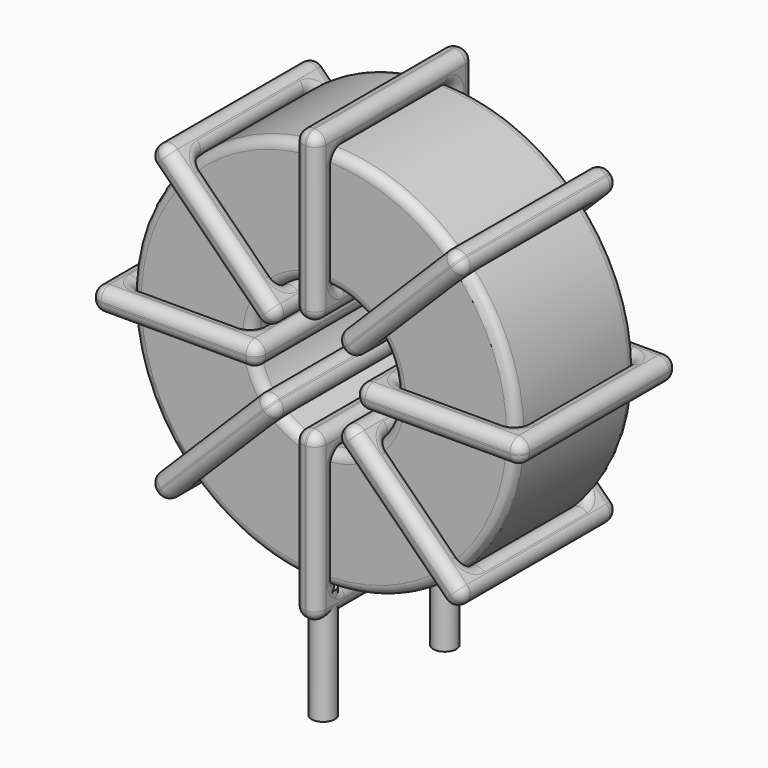
from build123d import *

# Parameters (mm, degrees)
SKETCH001_R       = 0.6
PAD001_DEPTH      = 1.2
PAD001_DEPTH_BACK = 4.7
SKETCH_R          = 10
SKETCH_R_2        = 3.733333
PAD_DEPTH         = 3.9
FILLET_R          = 0.5
SKETCH003_W       = 8.666667
SKETCH003_H       = 10.2
SKETCH003_W_2     = 6.266667
SKETCH003_H_2     = 7.8
PAD002_DEPTH      = 0.6
FILLET001_R       = 0.564
SKETCH004_W       = 8.666667
SKETCH004_H       = 10.2
SKETCH004_W_2     = 6.266667
SKETCH004_H_2     = 7.8
PAD003_DEPTH      = 0.6
FILLET002_R       = 0.564
SKETCH005_W       = 8.666667
SKETCH005_H       = 10.2
SKETCH005_W_2     = 6.266667
SKETCH005_H_2     = 7.8
PAD004_DEPTH      = 0.6
FILLET003_R       = 0.564
SKETCH006_W       = 8.666667
SKETCH006_H       = 10.2
SKETCH006_W_2     = 6.266667
SKETCH006_H_2     = 7.8
PAD005_DEPTH      = 0.6
FILLET004_R       = 0.564


with BuildPart() as pad001:
    # Sketch001 → Pad001 (new body, two sides)
    with BuildSketch(Plane.XY.offset(1.7)) as pad001_sk:
        Circle(SKETCH001_R)
        with Locations((0, -7.9)):
            Circle(SKETCH001_R)
    extrude(amount=PAD001_DEPTH)
    extrude(pad001_sk.sketch, amount=-PAD001_DEPTH_BACK)


with BuildPart() as fillet_body:
    # Sketch → Pad (new body, symmetric)
    with BuildSketch(Plane.XZ.offset(3.95)):
        with Locations((0, 12.9)):
            Circle(SKETCH_R)
        with Locations((0, 12.9)):
            Circle(SKETCH_R_2, mode=Mode.SUBTRACT)
    extrude(amount=PAD_DEPTH, both=True)

    # Fillet
    fillet_edges = [fillet_body.edges().sort_by_distance(p)[0] for p in [
        (-3.733333, -7.85, 12.9),
        (-10, -7.85, 12.9),
        (-10, -0.05, 12.9),
    ]]
    fillet(fillet_edges, radius=FILLET_R)


with BuildPart() as fillet001:
    # Sketch003 → Pad002 (new body, symmetric)
    with BuildSketch(Plane(origin=(0, 1.15, 12.9), x_dir=(1, 0, 0), z_dir=(0, 0, -1))):
        with Locations((-6.866666, 5.1)):
            Rectangle(SKETCH003_W, SKETCH003_H)
        with Locations((-6.866667, 5.1)):
            Rectangle(SKETCH003_W_2, SKETCH003_H_2, mode=Mode.SUBTRACT)
        with Locations((6.866666, 5.1)):
            Rectangle(SKETCH003_W, SKETCH003_H)
        with Locations((6.866667, 5.1)):
            Rectangle(SKETCH003_W_2, SKETCH003_H_2, mode=Mode.SUBTRACT)
    extrude(amount=PAD002_DEPTH, both=True)

    # Fillet001
    fillet001_edges = [fillet001.edges().sort_by_distance(p)[0] for p in [
        (-3.733333, -7.85, 12.9),
        (-3.733333, -0.05, 12.9),
        (-3.733333, -3.95, 13.5),
        (-3.733333, -3.95, 12.3),
        (-11.2, -9.05, 12.9),
        (-2.533333, -9.05, 12.9),
        (-6.866667, -9.05, 13.5),
        (-6.866667, -9.05, 12.3),
        (-2.533333, 1.15, 12.9),
        (-2.533333, -3.95, 13.5),
        (-2.533333, -3.95, 12.3),
        (3.733333, -7.85, 12.9),
        (10, -7.85, 12.9),
        (6.866667, -7.85, 13.5),
        (6.866667, -7.85, 12.3),
        (10, -0.05, 12.9),
        (10, -3.95, 13.5),
        (10, -3.95, 12.3),
        (2.533333, -9.05, 12.9),
        (11.2, -9.05, 12.9),
        (6.866667, -9.05, 13.5),
        (6.866667, -9.05, 12.3),
        (11.2, 1.15, 12.9),
        (11.2, -3.95, 13.5),
        (11.2, -3.95, 12.3),
        (-10, -7.85, 12.9),
        (-6.866667, -7.85, 13.5),
        (-6.866667, -7.85, 12.3),
        (3.733333, -0.05, 12.9),
        (3.733333, -3.95, 13.5),
        (3.733333, -3.95, 12.3),
        (6.866667, -0.05, 13.5),
        (6.866667, -0.05, 12.3),
        (2.533333, 1.15, 12.9),
        (6.866667, 1.15, 13.5),
        (6.866667, 1.15, 12.3),
        (2.533333, -3.95, 13.5),
        (2.533333, -3.95, 12.3),
        (-11.2, 1.15, 12.9),
        (-6.866667, 1.15, 13.5),
        (-6.866667, 1.15, 12.3),
        (-11.2, -3.95, 13.5),
        (-11.2, -3.95, 12.3),
        (-10, -0.05, 12.9),
        (-10, -3.95, 13.5),
        (-10, -3.95, 12.3),
        (-6.866667, -0.05, 13.5),
        (-6.866667, -0.05, 12.3),
    ]]
    fillet(fillet001_edges, radius=FILLET001_R)


with BuildPart() as fillet002:
    # Sketch004 → Pad003 (new body, symmetric)
    with BuildSketch(Plane(origin=(0, 1.15, 12.9), x_dir=(0.707108, 0, 0.707106), z_dir=(0.707106, 0, -0.707108))):
        with Locations((-6.866666, 5.1)):
            Rectangle(SKETCH004_W, SKETCH004_H)
        with Locations((-6.866667, 5.1)):
            Rectangle(SKETCH004_W_2, SKETCH004_H_2, mode=Mode.SUBTRACT)
        with Locations((6.866666, 5.1)):
            Rectangle(SKETCH004_W, SKETCH004_H)
        with Locations((6.866667, 5.1)):
            Rectangle(SKETCH004_W_2, SKETCH004_H_2, mode=Mode.SUBTRACT)
    extrude(amount=PAD003_DEPTH, both=True)

    # Fillet002
    fillet002_edges = [fillet002.edges().sort_by_distance(p)[0] for p in [
        (-2.639868, -7.85, 10.260138),
        (-2.639868, -0.05, 10.260138),
        (-3.064132, -3.95, 10.684402),
        (-2.215605, -3.95, 9.835873),
        (-7.919605, -9.05, 4.980413),
        (-1.791339, -9.05, 11.108665),
        (-5.279736, -9.05, 8.468804),
        (-4.431209, -9.05, 7.620274),
        (-1.791339, 1.15, 11.108665),
        (-2.215603, -3.95, 11.532929),
        (-1.367076, -3.95, 10.6844),
        (2.639868, -7.85, 15.539862),
        (7.071076, -7.85, 19.97106),
        (4.431209, -7.85, 18.179726),
        (5.279736, -7.85, 17.331196),
        (7.071076, -0.05, 19.97106),
        (6.646812, -3.95, 20.395324),
        (7.49534, -3.95, 19.546795),
        (1.791339, -9.05, 14.691335),
        (7.919605, -9.05, 20.819587),
        (4.431209, -9.05, 18.179726),
        (5.279736, -9.05, 17.331196),
        (7.919605, 1.15, 20.819587),
        (7.495342, -3.95, 21.243851),
        (8.343869, -3.95, 20.395322),
        (-7.071076, -7.85, 5.82894),
        (-5.279736, -7.85, 8.468804),
        (-4.431209, -7.85, 7.620274),
        (2.639868, -0.05, 15.539862),
        (2.215605, -3.95, 15.964127),
        (3.064132, -3.95, 15.115598),
        (4.431209, -0.05, 18.179726),
        (5.279736, -0.05, 17.331196),
        (1.791339, 1.15, 14.691335),
        (4.431209, 1.15, 18.179726),
        (5.279736, 1.15, 17.331196),
        (1.367076, -3.95, 15.1156),
        (2.215603, -3.95, 14.267071),
        (-7.919605, 1.15, 4.980413),
        (-5.279736, 1.15, 8.468804),
        (-4.431209, 1.15, 7.620274),
        (-8.343869, -3.95, 5.404678),
        (-7.495342, -3.95, 4.556149),
        (-7.071076, -0.05, 5.82894),
        (-7.49534, -3.95, 6.253205),
        (-6.646812, -3.95, 5.404676),
        (-5.279736, -0.05, 8.468804),
        (-4.431209, -0.05, 7.620274),
    ]]
    fillet(fillet002_edges, radius=FILLET002_R)


with BuildPart() as fillet003:
    # Sketch005 → Pad004 (new body, symmetric)
    with BuildSketch(Plane(origin=(0, 1.15, 12.9), x_dir=(0.707108, 0, -0.707106), z_dir=(-0.707106, 0, -0.707108))):
        with Locations((-6.866666, 5.1)):
            Rectangle(SKETCH005_W, SKETCH005_H)
        with Locations((-6.866667, 5.1)):
            Rectangle(SKETCH005_W_2, SKETCH005_H_2, mode=Mode.SUBTRACT)
        with Locations((6.866666, 5.1)):
            Rectangle(SKETCH005_W, SKETCH005_H)
        with Locations((6.866667, 5.1)):
            Rectangle(SKETCH005_W_2, SKETCH005_H_2, mode=Mode.SUBTRACT)
    extrude(amount=PAD004_DEPTH, both=True)

    # Fillet003
    fillet003_edges = [fillet003.edges().sort_by_distance(p)[0] for p in [
        (-2.639868, -7.85, 15.539862),
        (-2.639868, -0.05, 15.539862),
        (-2.215605, -3.95, 15.964127),
        (-3.064132, -3.95, 15.115598),
        (-7.919605, -9.05, 20.819587),
        (-1.791339, -9.05, 14.691335),
        (-4.431209, -9.05, 18.179726),
        (-5.279736, -9.05, 17.331196),
        (-1.791339, 1.15, 14.691335),
        (-1.367076, -3.95, 15.1156),
        (-2.215603, -3.95, 14.267071),
        (2.639868, -7.85, 10.260138),
        (7.071076, -7.85, 5.82894),
        (5.279736, -7.85, 8.468804),
        (4.431209, -7.85, 7.620274),
        (7.071076, -0.05, 5.82894),
        (7.49534, -3.95, 6.253205),
        (6.646812, -3.95, 5.404676),
        (1.791339, -9.05, 11.108665),
        (7.919605, -9.05, 4.980413),
        (5.279736, -9.05, 8.468804),
        (4.431209, -9.05, 7.620274),
        (7.919605, 1.15, 4.980413),
        (8.343869, -3.95, 5.404678),
        (7.495342, -3.95, 4.556149),
        (-7.071076, -7.85, 19.97106),
        (-4.431209, -7.85, 18.179726),
        (-5.279736, -7.85, 17.331196),
        (2.639868, -0.05, 10.260138),
        (3.064132, -3.95, 10.684402),
        (2.215605, -3.95, 9.835873),
        (5.279736, -0.05, 8.468804),
        (4.431209, -0.05, 7.620274),
        (1.791339, 1.15, 11.108665),
        (5.279736, 1.15, 8.468804),
        (4.431209, 1.15, 7.620274),
        (2.215603, -3.95, 11.532929),
        (1.367076, -3.95, 10.6844),
        (-7.919605, 1.15, 20.819587),
        (-4.431209, 1.15, 18.179726),
        (-5.279736, 1.15, 17.331196),
        (-7.495342, -3.95, 21.243851),
        (-8.343869, -3.95, 20.395322),
        (-7.071076, -0.05, 19.97106),
        (-6.646812, -3.95, 20.395324),
        (-7.49534, -3.95, 19.546795),
        (-4.431209, -0.05, 18.179726),
        (-5.279736, -0.05, 17.331196),
    ]]
    fillet(fillet003_edges, radius=FILLET003_R)


with BuildPart() as fillet004:
    # Sketch006 → Pad005 (new body, symmetric)
    with BuildSketch(Plane(origin=(0, 1.15, 12.9), x_dir=(0, 0, 1), z_dir=(1, 0, 0))):
        with Locations((-6.866666, 5.1)):
            Rectangle(SKETCH006_W, SKETCH006_H)
        with Locations((-6.866667, 5.1)):
            Rectangle(SKETCH006_W_2, SKETCH006_H_2, mode=Mode.SUBTRACT)
        with Locations((6.866666, 5.1)):
            Rectangle(SKETCH006_W, SKETCH006_H)
        with Locations((6.866667, 5.1)):
            Rectangle(SKETCH006_W_2, SKETCH006_H_2, mode=Mode.SUBTRACT)
    extrude(amount=PAD005_DEPTH, both=True)

    # Fillet004
    fillet004_edges = [fillet004.edges().sort_by_distance(p)[0] for p in [
        (0, -7.85, 9.166667),
        (0, -0.05, 9.166667),
        (-0.6, -3.95, 9.166667),
        (0.6, -3.95, 9.166667),
        (0, -9.05, 1.7),
        (0, -9.05, 10.366667),
        (-0.6, -9.05, 6.033333),
        (0.6, -9.05, 6.033333),
        (0, 1.15, 10.366667),
        (-0.6, -3.95, 10.366667),
        (0.6, -3.95, 10.366667),
        (0, -7.85, 16.633333),
        (0, -7.85, 22.9),
        (-0.6, -7.85, 19.766667),
        (0.6, -7.85, 19.766667),
        (0, -0.05, 22.9),
        (-0.6, -3.95, 22.9),
        (0.6, -3.95, 22.9),
        (0, -9.05, 15.433333),
        (0, -9.05, 24.1),
        (-0.6, -9.05, 19.766667),
        (0.6, -9.05, 19.766667),
        (0, 1.15, 24.1),
        (-0.6, -3.95, 24.1),
        (0.6, -3.95, 24.1),
        (0, -7.85, 2.9),
        (-0.6, -7.85, 6.033333),
        (0.6, -7.85, 6.033333),
        (0, -0.05, 16.633333),
        (-0.6, -3.95, 16.633333),
        (0.6, -3.95, 16.633333),
        (-0.6, -0.05, 19.766667),
        (0.6, -0.05, 19.766667),
        (0, 1.15, 15.433333),
        (-0.6, 1.15, 19.766667),
        (0.6, 1.15, 19.766667),
        (-0.6, -3.95, 15.433333),
        (0.6, -3.95, 15.433333),
        (0, 1.15, 1.7),
        (-0.6, 1.15, 6.033333),
        (0.6, 1.15, 6.033333),
        (-0.6, -3.95, 1.7),
        (0.6, -3.95, 1.7),
        (0, -0.05, 2.9),
        (-0.6, -3.95, 2.9),
        (0.6, -3.95, 2.9),
        (-0.6, -0.05, 6.033333),
        (0.6, -0.05, 6.033333),
    ]]
    fillet(fillet004_edges, radius=FILLET004_R)


solid = Compound([pad001.part, fillet_body.part, fillet001.part, fillet002.part, fillet003.part, fillet004.part])
